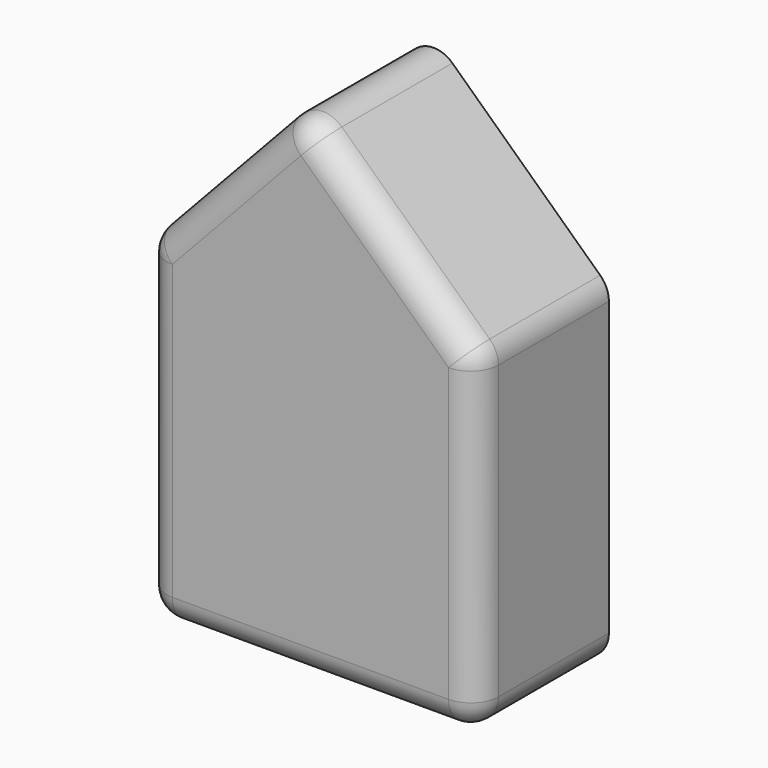
from build123d import *

# Parameters (mm, degrees)
F1_DEPTH = 30
F2_R     = 5


with BuildPart() as f1:
    # F0 (on Front) → F1 (new body)
    with BuildSketch(Plane.XZ):
        Polygon((0, 60), (-28.029396, 30), (-28.029396, -30), (31.970604, -30), (31.970604, 30), align=None)
    extrude(amount=F1_DEPTH)

    # F2
    f2_edges = [f1.edges().sort_by_distance(p)[0] for p in [
        (-14.014698, -30, 45),
        (15.985302, -30, 45),
        (-28.029396, -30, 0),
        (-28.029396, -15, 30),
        (0, -15, 60),
        (31.970604, -30, 0),
        (1.970604, -30, -30),
        (-28.029396, -15, -30),
        (31.970604, -15, -30),
        (31.970604, -15, 30),
    ]]
    fillet(f2_edges, radius=F2_R)


solid = f1.part
